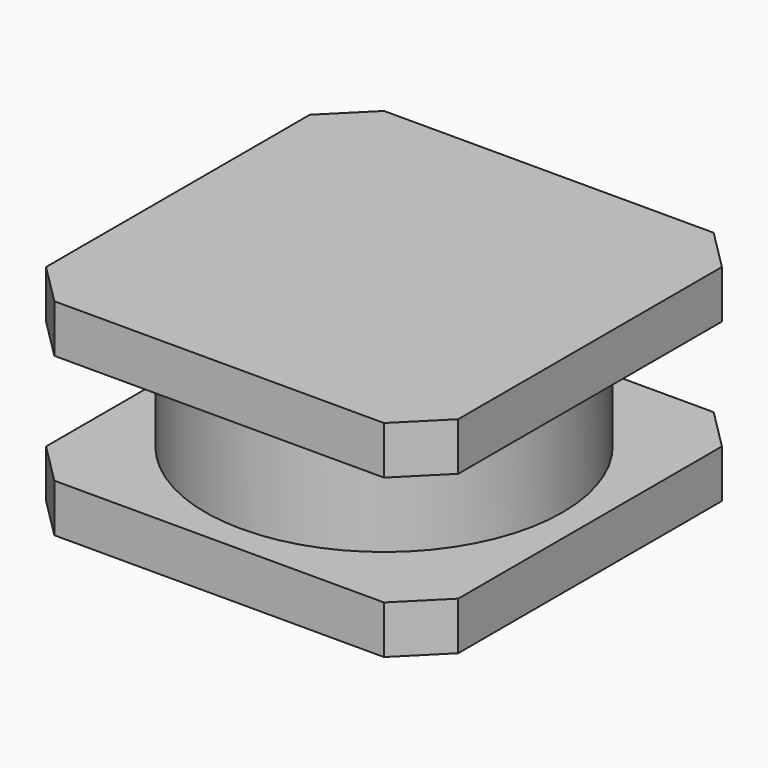
from build123d import *

# Parameters (mm, degrees)
BOX001_W        = 3
BOX001_H        = 3
BOX001_DEPTH    = 0.35
CHAMFER001_SIZE = 0.3
CYLINDER_R      = 1.3
CYLINDER_DEPTH  = 1.3
BOX_W           = 3
BOX_H           = 3
BOX_DEPTH       = 0.35
CHAMFER_SIZE    = 0.3


with BuildPart() as chamfer001:
    # Box001 → Box001 (new body)
    with BuildSketch(Plane.XY):
        with Locations((1.5, 1.5)):
            Rectangle(BOX001_W, BOX001_H)
    extrude(amount=BOX001_DEPTH)

    # Chamfer001
    chamfer001_edges = [chamfer001.edges().sort_by_distance(p)[0] for p in [
        (0, 0, 0.175),
        (0, 3, 0.175),
        (3, 0, 0.175),
        (3, 3, 0.175),
    ]]
    chamfer(chamfer001_edges, length=CHAMFER001_SIZE)


with BuildPart() as chamfer001_1:
    # Chamfer001 placement: moved
    add(chamfer001.part.moved(Location((0, 0, 1.15))))


with BuildPart() as obj1:
    # Cylinder → Cylinder (new body)
    with BuildSketch(Plane(origin=(1.5, 1.5, 0.1), x_dir=(1, 0, 0), z_dir=(0, 0, 1))):
        Circle(CYLINDER_R)
    extrude(amount=CYLINDER_DEPTH)


with BuildPart() as fusion:
    # Box → Box (new body)
    with BuildSketch(Plane.XY):
        with Locations((1.5, 1.5)):
            Rectangle(BOX_W, BOX_H)
    extrude(amount=BOX_DEPTH)

    # Chamfer
    chamfer_edges = [fusion.edges().sort_by_distance(p)[0] for p in [
        (0, 0, 0.175),
        (0, 3, 0.175),
        (3, 0, 0.175),
        (3, 3, 0.175),
    ]]
    chamfer(chamfer_edges, length=CHAMFER_SIZE)

    # Fusion: union Chamfer001, obj1
    add(chamfer001_1.part)
    add(obj1.part)


solid = fusion.part
